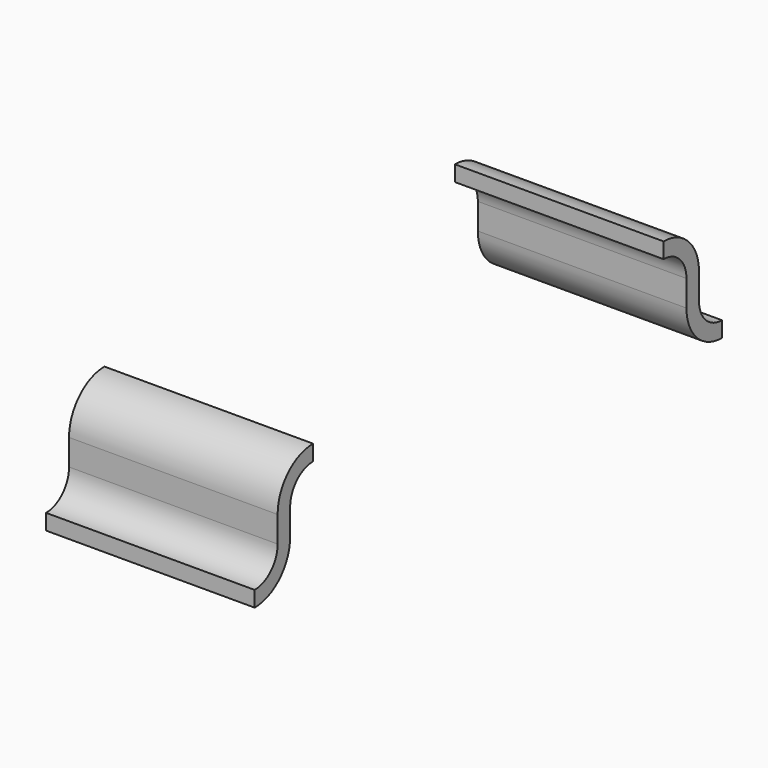
from build123d import *

# Parameters (mm, degrees)
EXTRUDE_DEPTH = 2


with BuildPart() as pin003:
    # Sketch009 → Extrude (new body)
    with BuildSketch(Plane.YZ):
        with BuildLine():
            ThreePointArc((-0.7, 0), (-0.39948, 0.12448), (-0.275, 0.425))
            Line((-0.275, 0.675), (-0.275, 0.425))
            ThreePointArc((0, 0.95), (-0.194454, 0.869454), (-0.275, 0.675))
            Line((0, 1.1), (0, 0.95))
            ThreePointArc((0, 1.1), (-0.30052, 0.97552), (-0.425, 0.675))
            Line((-0.425, 0.675), (-0.425, 0.425))
            ThreePointArc((-0.7, 0.15), (-0.505546, 0.230546), (-0.425, 0.425))
            Line((-0.7, 0.15), (-0.7, 0))
        make_face()
    extrude(amount=EXTRUDE_DEPTH)


with BuildPart() as pin003_1:
    # Extrude placement: moved
    add(pin003.part.moved(Location((0.7, 0, 0))))


with BuildPart() as pin004:
    # Clone011 base: copy of Pin003
    add(pin003_1.part)


with BuildPart() as pin001:
    # Part__Mirroring: instance of Pin004
    add(pin004.part.mirror(Plane(origin=(0, 0, 0), x_dir=(1, 0, 0), z_dir=(0, 1, 0))))


with BuildPart() as pin001_1:
    # Part__Mirroring placement: moved
    add(pin001.part.moved(Location((0, 4.2, 0))))


with BuildPart() as pins003:
    # Fusion028 base: copy of Pin003
    add(pin003_1.part)

    # Fusion028: union Pin001
    add(pin001_1.part)


solid = pins003.part
